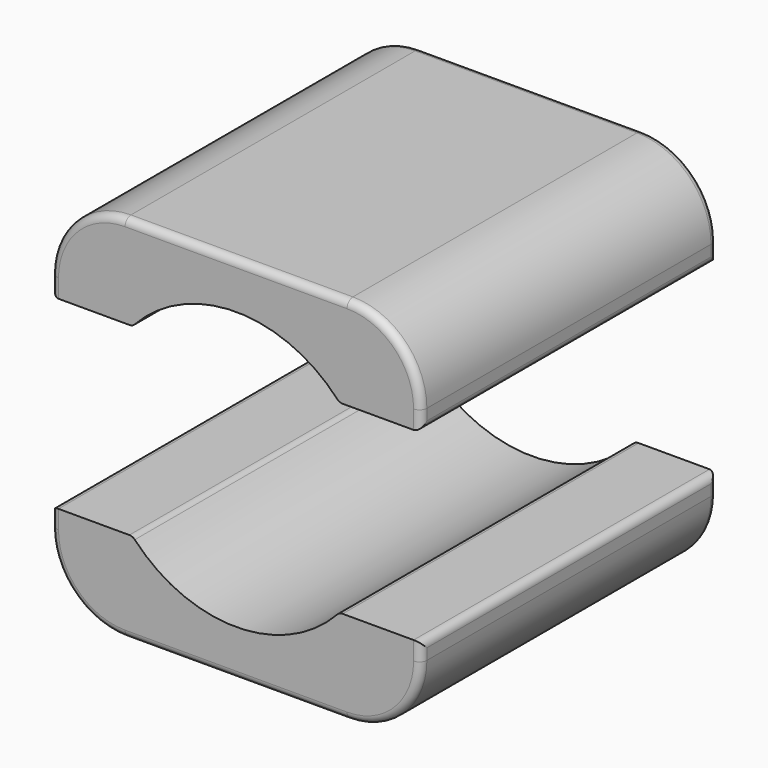
from build123d import *

# Parameters (mm, degrees)
F1_DEPTH = 12.7
F2_R     = 5.08
F3_R     = 0.508


with BuildPart() as f1:
    # F0 (on Front) → F1 (new body, symmetric)
    with BuildSketch(Plane.XZ):
        with BuildLine():
            Line((-12.7, -12.7), (12.7, -12.7))
            Line((12.7, -12.7), (12.7, -6.35))
            Line((12.7, -6.35), (7.099516, -6.35))
            ThreePointArc((7.099516, -6.35), (0, -9.525), (-7.099516, -6.35))
            Line((-7.099516, -6.35), (-12.7, -6.35))
            Line((-12.7, -6.35), (-12.7, -12.7))
        make_face()
        with BuildLine():
            Line((12.7, 6.35), (12.7, 12.7))
            Line((12.7, 12.7), (-12.7, 12.7))
            Line((-12.7, 12.7), (-12.7, 6.35))
            Line((-12.7, 6.35), (-7.099516, 6.35))
            ThreePointArc((-7.099516, 6.35), (0, 9.525), (7.099516, 6.35))
            Line((7.099516, 6.35), (12.7, 6.35))
        make_face()
    extrude(amount=F1_DEPTH, both=True)

    # F2
    f2_edges = [f1.edges().sort_by_distance(p)[0] for p in [
        (12.7, 0, 12.7),
        (-12.7, 0, 12.7),
        (12.7, 0, -12.7),
        (-12.7, 0, -12.7),
    ]]
    fillet(f2_edges, radius=F2_R)

    # F3
    f3_edges = [f1.edges().sort_by_distance(p)[0] for p in [
        (0, -12.7, 12.7),
        (0, 12.7, 12.7),
        (0, -12.7, -12.7),
        (0, 12.7, -12.7),
        (-12.7, 0, 6.35),
        (-7.099516, 0, 6.35),
        (7.099516, 0, 6.35),
        (12.7, 0, 6.35),
        (12.7, 0, -6.35),
        (-12.7, 0, -6.35),
        (7.099516, 0, -6.35),
        (-7.099516, 0, -6.35),
    ]]
    fillet(f3_edges, radius=F3_R)


solid = f1.part
